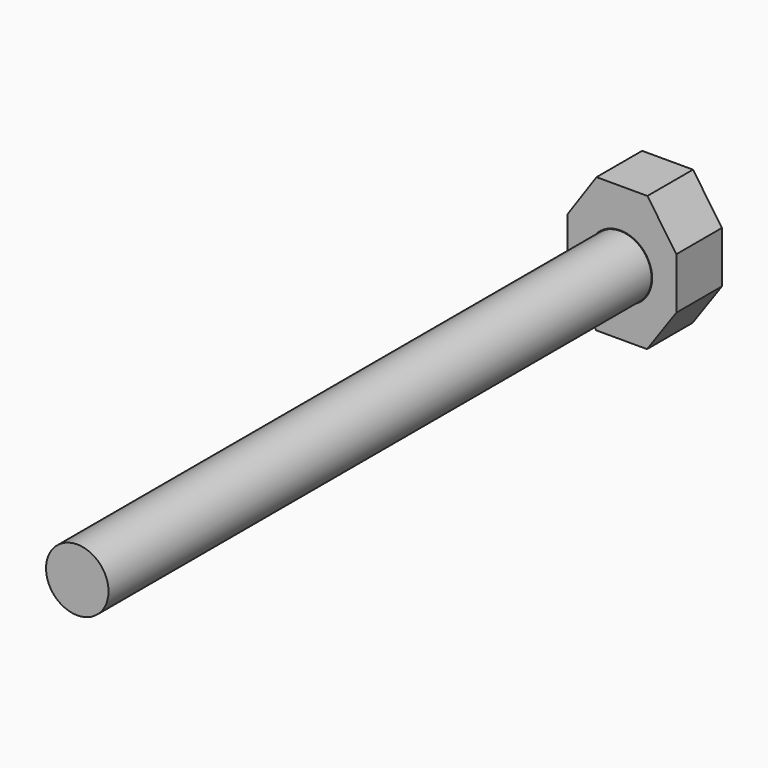
from build123d import *

# Parameters (mm, degrees)
F0_R     = 4.7625
F1_DEPTH = 8.528801
F2_R     = 4.675782
F3_DEPTH = 101.6


with BuildPart() as f1:
    # F0 (on Front) → F1 (new body)
    with BuildSketch(Plane.XZ):
        Polygon((4.325996, 6.272971), (0, 0), (0, -7.62), (4.268434, -13.93228), (11.888434, -13.93228), (16.271991, -7.699397), (16.271991, 0), (11.945996, 6.272971), align=None)
        with Locations((7.887162, -4.335348)):
            Circle(F0_R, mode=Mode.SUBTRACT)
    extrude(amount=F1_DEPTH)


with BuildPart() as f3:
    # F2 (on face) → F3 (new body)
    with BuildSketch(Plane.XZ.offset(8.528801)):
        with Locations((7.887162, -4.335348)):
            Circle(F2_R)
    extrude(amount=F3_DEPTH)


solid = Compound([f1.part, f3.part])
